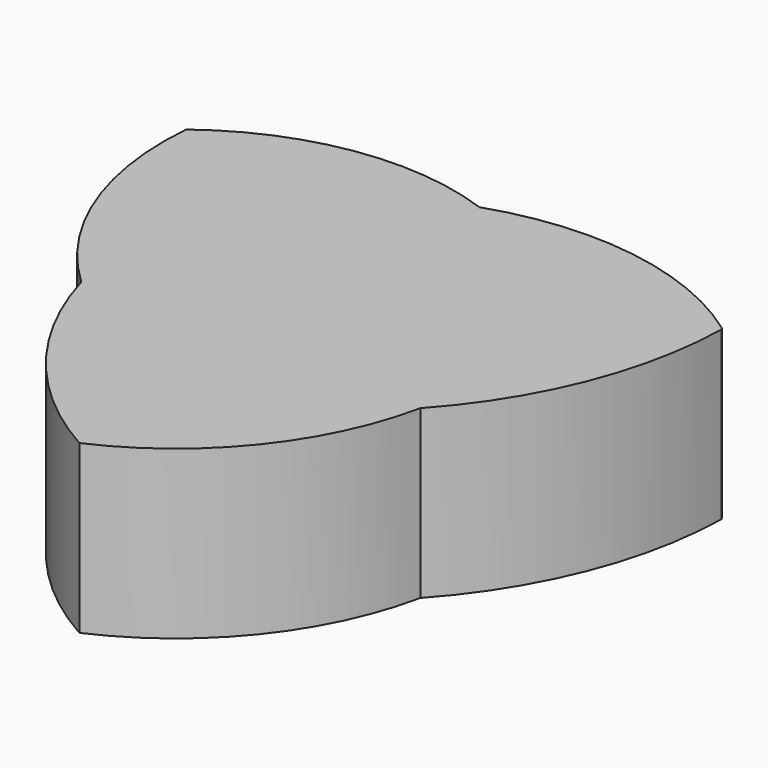
from build123d import *

# Parameters (mm, degrees)
F1_DEPTH = 3.96875


with BuildPart() as f1:
    # F0 (on Top) → F1 (new body)
    with BuildSketch(Plane.XY):
        with BuildLine():
            Line((6.357343, 3.599845), (6.327746, 3.651619))
            ThreePointArc((6.327746, 3.651619), (3.176014, 4.937132), (-0.214079, 4.631808))
            ThreePointArc((-0.214079, 4.631808), (-3.435517, 4.94244), (-6.411583, 3.670753))
            ThreePointArc((-6.411583, 3.670753), (-5.947905, 0.406573), (-4.103787, -2.326392))
            ThreePointArc((-4.103787, -2.326392), (-2.598583, -5.259348), (-0.090588, -7.398935))
            ThreePointArc((-0.090588, -7.398935), (2.544544, -5.363511), (3.970517, -2.354611))
            ThreePointArc((3.970517, -2.354611), (5.704057, 0.406109), (6.357343, 3.599845))
        make_face()
    extrude(amount=F1_DEPTH)


solid = f1.part
